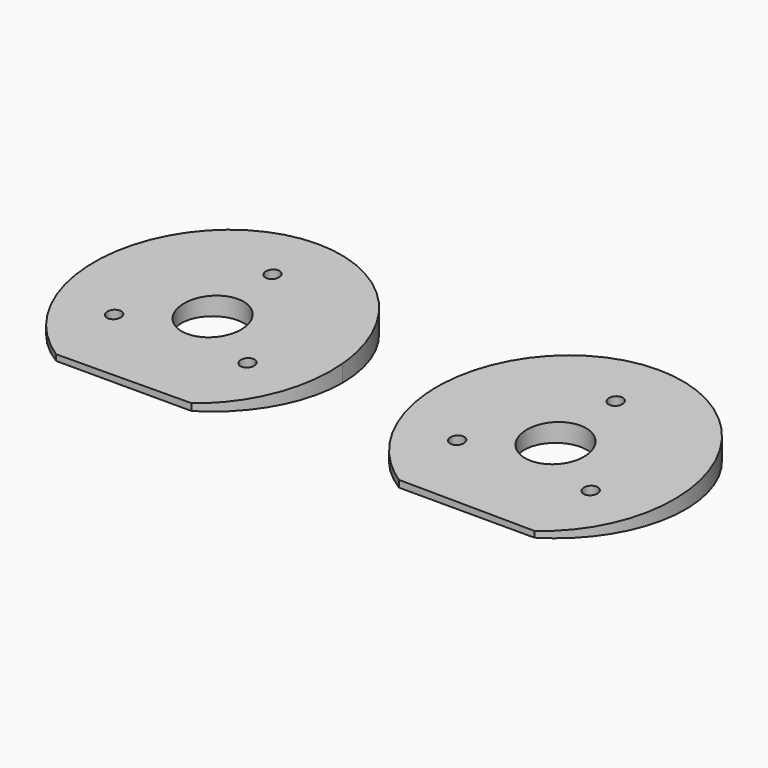
from build123d import *

# Parameters (mm, degrees)
F0_R     = 6.5
F1_DEPTH = 25
F5_DEPTH = 50
F7_DEPTH = 5.861862694


with BuildPart() as f1:
    # F0 (on Top) → F1 (new body)
    with BuildSketch(Plane.XY):
        with BuildLine():
            ThreePointArc((14.0692943446, -23.0446296704), (23.546453526, -13.2122869462), (27, 0))
            ThreePointArc((27, 0), (-13.2122869462, 23.546453526), (-14.0692943446, -23.0446296704))
            Line((-14.0692943446, -23.0446296704), (14.0692943446, -23.0446296704))
        make_face()
        Circle(F0_R, mode=Mode.SUBTRACT)
    extrude(amount=F1_DEPTH)

    # F4 (on 3pt) → F5 (cut, symmetric)
    with BuildSketch(Plane(origin=(0, 0, 0), x_dir=(-0.0784590957, -0.9969173337, 0), z_dir=(-0.9969173337, 0.0784590957, 0))):
        Polygon((33.1225750617, 31.4058586955), (-31.078401953, 31.4058586955), (-31.078401953, 6.0620104305), (33.1225750617, 0.4451527544), align=None)
    extrude(amount=F5_DEPTH, both=True, mode=Mode.SUBTRACT)

    # F6 (on face) → F7 (cut, through all)
    with BuildSketch(Plane(origin=(-0.0227729999, -0.2893583993, 3.3176087187), x_dir=(0.9999766195, -0.0005941616, 0.0068122988), z_dir=(-0.0068381608, -0.0868870707, 0.9961946981))):
        with BuildLine():
            add(Edge.make_bspline(
                [(1.4859043777, 15.8222442986), (1.6882034033, 18.4025158484), (-0.6560625556, 17.2882453895), (-3.0003285145, 16.1739749305), (-0.8583615812, 14.7079738397), (1.283605352, 13.2419727488), (1.4859043777, 15.8222442986)],
                knots=[0, 0, 0, 2.0943951024, 2.0943951024, 4.1887902048, 4.1887902048, 6.2831853072, 6.2831853072, 6.2831853072], degree=2, weights=[1, 0.5, 1, 0.5, 1, 0.5, 1]))
        make_face()
        with BuildLine():
            add(Edge.make_bspline(
                [(-12.3559182337, -8.0869874653), (-12.153619208, -5.5067159155), (-14.4978851669, -6.6209863744), (-16.8421511258, -7.7352568333), (-14.7001841926, -9.2012579242), (-12.5582172593, -10.6672590151), (-12.3559182337, -8.0869874653)],
                knots=[0, 0, 0, 2.0943951024, 2.0943951024, 4.1887902048, 4.1887902048, 6.2831853072, 6.2831853072, 6.2831853072], degree=2, weights=[1, 0.5, 1, 0.5, 1, 0.5, 1]))
        make_face()
        with BuildLine():
            add(Edge.make_bspline(
                [(15.3562467482, -8.0869874653), (15.5585457738, -5.5067159155), (13.2142798149, -6.6209863744), (10.870013856, -7.7352568333), (13.0119807893, -9.2012579242), (15.1539477225, -10.6672590151), (15.3562467482, -8.0869874653)],
                knots=[0, 0, 0, 2.0943951024, 2.0943951024, 4.1887902048, 4.1887902048, 6.2831853072, 6.2831853072, 6.2831853072], degree=2, weights=[1, 0.5, 1, 0.5, 1, 0.5, 1]))
        make_face()
    extrude(amount=-F7_DEPTH, mode=Mode.SUBTRACT)


with BuildPart() as f9_1:
    # F9: instance of F1
    add(f1.part.mirror(Plane.YZ.offset(35.6)))


solid = Compound([f1.part, f9_1.part])
